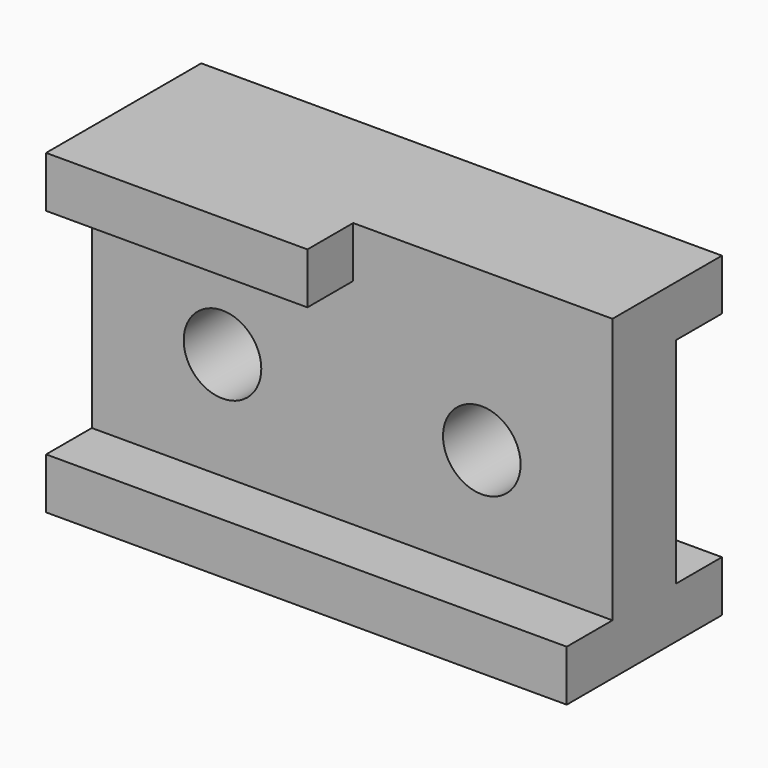
from build123d import *

# Parameters (mm, degrees)
F0_W     = 3238.5
F0_H     = 1968.5
F1_DEPTH = 1206.5
F3_DEPTH = 355.6
F4_W     = 3238.5
F4_H     = 1333.5
F5_DEPTH = 355.6
F6_R     = 241.3
F7_DEPTH = 495.3


with BuildPart() as f1:
    # F0 (on Front) → F1 (new body)
    with BuildSketch(Plane.XZ):
        with Locations((2.909454, 806.723997)):
            Rectangle(F0_W, F0_H)
    extrude(amount=F1_DEPTH)

    # F2 (on face) → F3 (cut)
    with BuildSketch(Plane.XZ.offset(1206.5)):
        Polygon((-1616.340546, 139.973997), (1622.159454, 139.973997), (1622.159454, 1790.973997), (9.259454, 1790.973997), (9.259454, 1473.473997), (-1616.340546, 1473.473997), align=None)
    extrude(amount=-F3_DEPTH, mode=Mode.SUBTRACT)

    # F4 (on face) → F5 (cut)
    with BuildSketch(Plane(origin=(0, 0, 0), x_dir=(-1, 0, 0), z_dir=(0, 1, 0))):
        with Locations((-2.909454, 806.723997)):
            Rectangle(F4_W, F4_H)
    extrude(amount=-F5_DEPTH, mode=Mode.SUBTRACT)

    # F6 (on face) → F7 (cut)
    with BuildSketch(Plane.XZ.offset(850.9)):
        with Locations((809.359454, 806.723997)):
            Circle(F6_R)
        with Locations((-803.540546, 806.723997)):
            Circle(F6_R)
    extrude(amount=-F7_DEPTH, mode=Mode.SUBTRACT)


solid = f1.part
